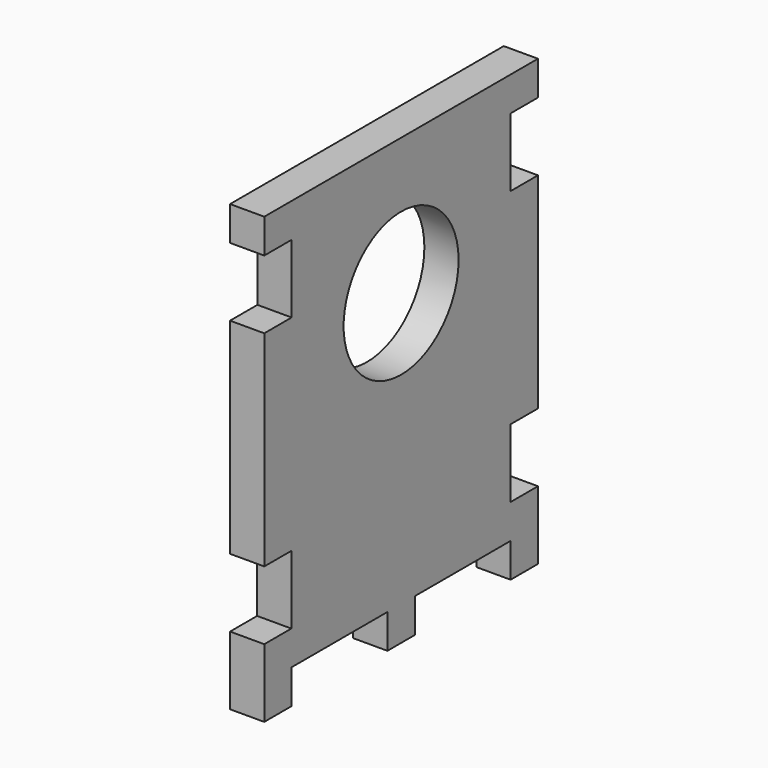
from build123d import *

# Parameters (mm, degrees)
F0_R     = 13.335
F1_DEPTH = 6.35


with BuildPart() as f1:
    # F0 (on Right) → F1 (new body)
    with BuildSketch(Plane.YZ):
        Polygon((0, 12.7), (0, 0), (6.35, 0), (6.35, 6.35), (28.575, 6.35), (28.575, 0), (34.925, 0), (34.925, 6.35), (57.15, 6.35), (57.15, 0), (63.5, 0), (63.5, 12.7), (57.15, 12.7), (57.15, 25.4), (63.5, 25.4), (63.5, 63.5), (57.15, 63.5), (57.15, 76.2), (63.5, 76.2), (63.5, 82.55), (0, 82.55), (0, 76.2), (6.35, 76.2), (6.35, 63.5), (0, 63.5), (0, 25.4), (6.283508, 25.4), (6.283508, 12.7), align=None)
        with Locations((31.75, 57.15)):
            Circle(F0_R, mode=Mode.SUBTRACT)
    extrude(amount=F1_DEPTH)


solid = f1.part
